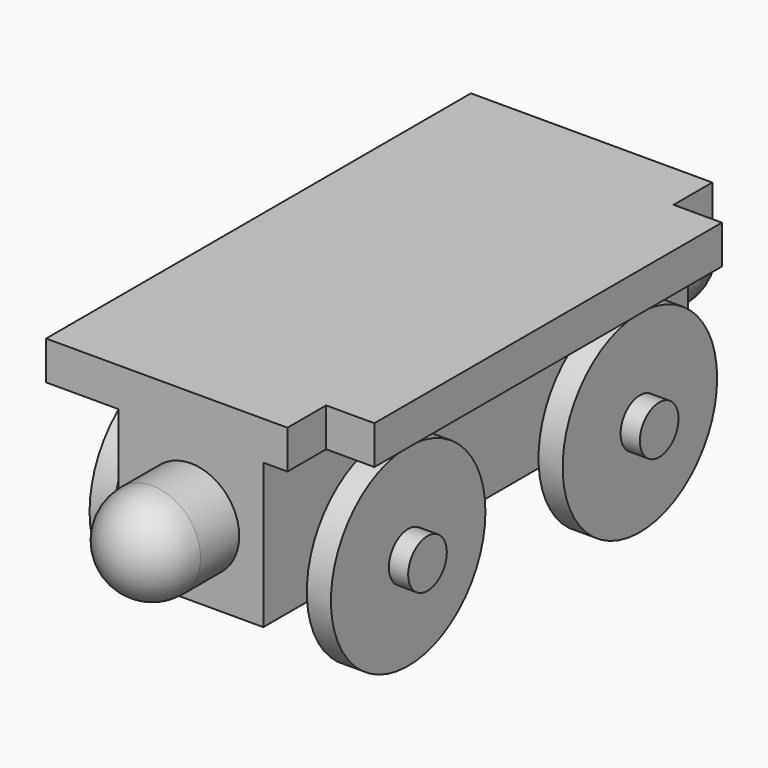
from build123d import *

# Parameters (mm, degrees)
F0_W      = 15
F0_H      = 55
F1_DEPTH  = 15
F2_W      = 30
F2_H      = 55
F3_DEPTH  = 4
F4_W      = 4.9988695979
F4_H      = 5.0033593178
F5_DEPTH  = 25
F6_W      = 5.0042228401
F6_H      = 5.0039739907
F7_DEPTH  = 25
F8_R      = 5
F9_DEPTH  = 5
F10_R     = 5
F11_DEPTH = 5
F12_R     = 3
F13_DEPTH = 10
F14_R     = 2.9985824227
F15_DEPTH = 10
F16_R     = 10
F17_DEPTH = 2.5
F18_R     = 10
F19_DEPTH = 2.5
F20_R     = 10
F21_DEPTH = 2.5
F22_R     = 10
F23_DEPTH = 2.5
F24_R     = 2.5
F25_DEPTH = 2
F26_R     = 2.5
F27_DEPTH = 2
F28_R     = 2.5
F29_DEPTH = 2
F30_R     = 2.5
F31_DEPTH = 2


with BuildPart() as f1:
    # F0 (on Top) → F1 (new body)
    with BuildSketch(Plane.XY):
        Rectangle(F0_W, F0_H)
    extrude(amount=-F1_DEPTH)

    # F2 (on Top) → F3 (join)
    with BuildSketch(Plane.XY):
        Rectangle(F2_W, F2_H)
    extrude(amount=F3_DEPTH)

    # F4 (on Top) → F5 (cut)
    with BuildSketch(Plane.XY):
        with Locations((12.500565201, -24.9983203411)):
            Rectangle(F4_W, F4_H)
    extrude(amount=F5_DEPTH, mode=Mode.SUBTRACT)

    # F6 (on Top) → F7 (cut)
    with BuildSketch(Plane.XY):
        with Locations((12.49788858, 24.9980130047)):
            Rectangle(F6_W, F6_H)
    extrude(amount=F7_DEPTH, mode=Mode.SUBTRACT)

    # F8 (on face) → F9 (join)
    with BuildSketch(Plane.XZ.offset(27.5)):
        with Locations((0, -7.500606589)):
            Circle(F8_R)
    extrude(amount=F9_DEPTH)

    # F10 (on face) → F11 (join)
    with BuildSketch(Plane(origin=(0, 27.5, 0), x_dir=(-1, 0, 0), z_dir=(0, 1, 0))):
        with Locations((0, -7.5018298812)):
            Circle(F10_R)
    extrude(amount=F11_DEPTH)

    # F12 (on Right) → F13 (join, symmetric)
    with BuildSketch(Plane.YZ):
        with Locations((-14.9961104617, -11.996043846)):
            Circle(F12_R)
    extrude(amount=F13_DEPTH, both=True)

    # F14 (on Right) → F15 (join, symmetric)
    with BuildSketch(Plane.YZ):
        with Locations((15.0015540421, -12.0014175773)):
            Circle(F14_R)
    extrude(amount=F15_DEPTH, both=True)

    # F16 (on face) → F17 (join)
    with BuildSketch(Plane.YZ.offset(10)):
        with Locations((-14.9961104617, -11.996043846)):
            Circle(F16_R)
    extrude(amount=F17_DEPTH)

    # F18 (on face) → F19 (join)
    with BuildSketch(Plane.YZ.offset(10)):
        with Locations((15.0015540421, -12.0014175773)):
            Circle(F18_R)
    extrude(amount=F19_DEPTH)

    # F20 (on face) → F21 (join)
    with BuildSketch(Plane(origin=(-10, 0, 0), x_dir=(0, -1, 0), z_dir=(-1, 0, 0))):
        with Locations((-15.0015540421, -12.0014175773)):
            Circle(F20_R)
    extrude(amount=F21_DEPTH)

    # F22 (on face) → F23 (join)
    with BuildSketch(Plane(origin=(-10, 0, 0), x_dir=(0, -1, 0), z_dir=(-1, 0, 0))):
        with Locations((14.9961104617, -11.996043846)):
            Circle(F22_R)
    extrude(amount=F23_DEPTH)

    # F24 (on face) → F25 (join)
    with BuildSketch(Plane.YZ.offset(12.5)):
        with Locations((-14.9961104617, -11.996043846)):
            Circle(F24_R)
    extrude(amount=F25_DEPTH)

    # F26 (on face) → F27 (join)
    with BuildSketch(Plane.YZ.offset(12.5)):
        with Locations((15.0015540421, -12.0014175773)):
            Circle(F26_R)
    extrude(amount=F27_DEPTH)

    # F28 (on face) → F29 (join)
    with BuildSketch(Plane(origin=(-12.5, 0, 0), x_dir=(0, -1, 0), z_dir=(-1, 0, 0))):
        with Locations((14.9961104617, -11.996043846)):
            Circle(F28_R)
    extrude(amount=F29_DEPTH)

    # F30 (on face) → F31 (join)
    with BuildSketch(Plane(origin=(-12.5, 0, 0), x_dir=(0, -1, 0), z_dir=(-1, 0, 0))):
        with Locations((-15.0015540421, -12.0014175773)):
            Circle(F30_R)
    extrude(amount=F31_DEPTH)

    # F32 (on face) → F33 (revolve)
    with BuildSketch(Plane(origin=(0, 32.5, 0), x_dir=(-1, 0, 0), z_dir=(0, 1, 0))):
        with BuildLine():
            Line((0, -2.5018298812), (0, -12.5018298812))
            ThreePointArc((0, -12.5018298812), (5, -7.5018298812), (0, -2.5018298812))
        make_face()
    revolve(axis=Axis((0, 32.5, -7.5018298812), (0, 0, -1)))

    # F34 (on face) → F35 (revolve)
    with BuildSketch(Plane.XZ.offset(32.5)):
        with BuildLine():
            Line((0, -2.500606589), (0, -12.500606589))
            ThreePointArc((0, -12.500606589), (5, -7.500606589), (0, -2.500606589))
        make_face()
    revolve(axis=Axis((0, -32.5, -7.500606589), (0, 0, -1)))


solid = f1.part
